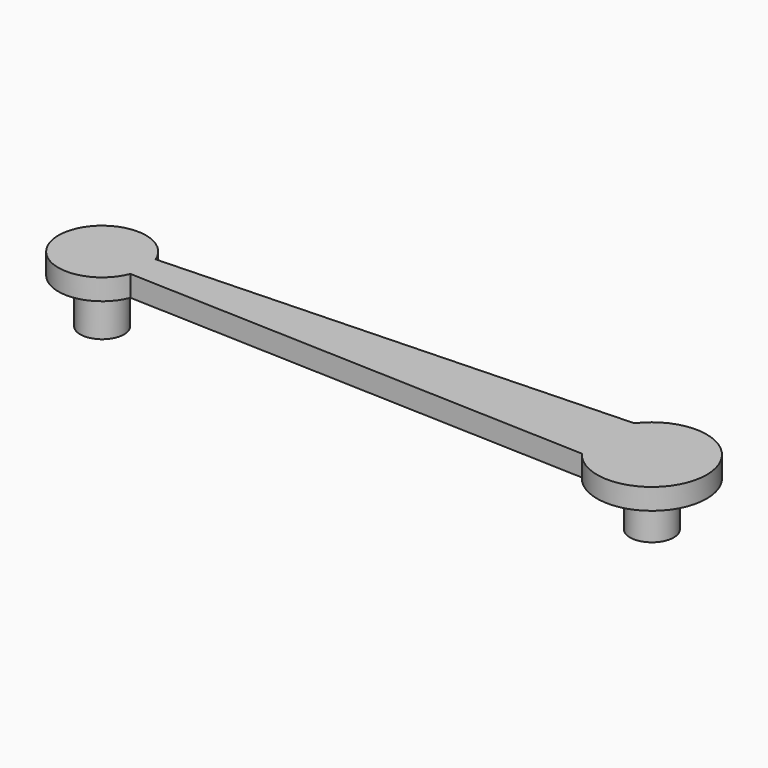
from build123d import *

# Parameters (mm, degrees)
F0_R     = 1.5875
F1_DEPTH = 1.524
F2_R     = 1.5875
F3_DEPTH = 4.7752


with BuildPart() as f1:
    # F0 (on Top) → F1 (new body)
    with BuildSketch(Plane.XY):
        with BuildLine():
            Line((-36.890476, -1.143), (-3.175, -2.38125))
            ThreePointArc((-3.175, -2.38125), (3.96875, 0), (-3.175, 2.38125))
            Line((-3.175, 2.38125), (-36.890476, 1.143))
            ThreePointArc((-36.890476, 1.143), (-43.0276, 0), (-36.890476, -1.143))
        make_face()
        with Locations((-39.8526, 0)):
            Circle(F0_R, mode=Mode.SUBTRACT)
        Circle(F0_R, mode=Mode.SUBTRACT)
    extrude(amount=F1_DEPTH)

    # F2 (on face) → F3 (join)
    with BuildSketch(Plane.XY.offset(1.524)):
        with Locations((-39.8526, 0)):
            Circle(F2_R)
        Circle(F2_R)
    extrude(amount=-F3_DEPTH)


solid = f1.part
